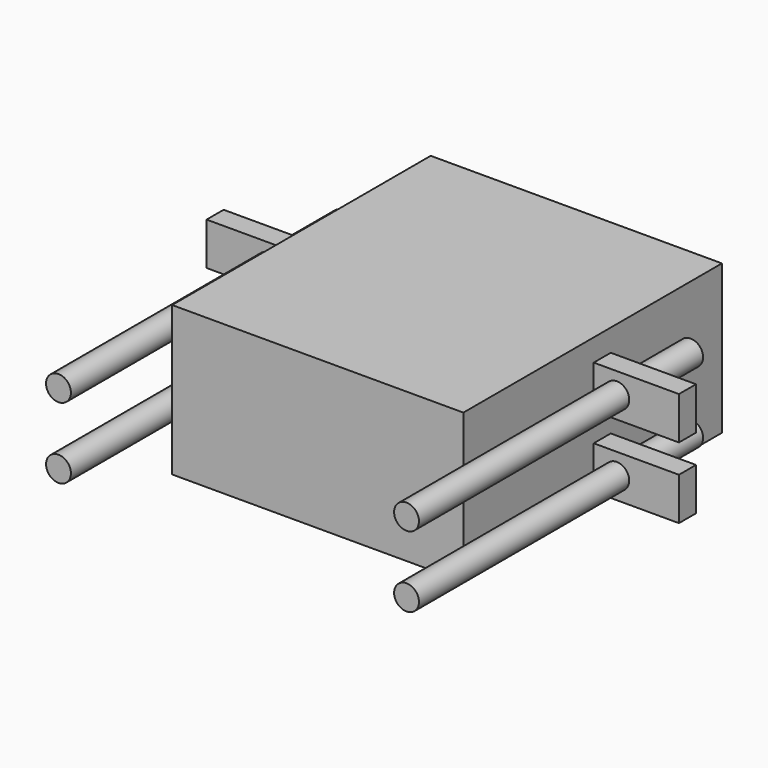
from build123d import *

# Parameters (mm, degrees)
CYLINDER009_R          = 1.75
CYLINDER009_DEPTH      = 50
CYLINDER009_ROLL_ANGLE = 90
CYLINDER007_R          = 1.75
CYLINDER007_DEPTH      = 50
CYLINDER007_ROLL_ANGLE = 90
CYLINDER006_R          = 1.75
CYLINDER006_DEPTH      = 50
CYLINDER006_ROLL_ANGLE = 90
CYLINDER008_R          = 1.75
CYLINDER008_DEPTH      = 50
CYLINDER008_ROLL_ANGLE = 90
BOX012_W               = 3
BOX012_H               = 12
BOX012_DEPTH           = 6
BOX012_PLACEMENT_ANGLE = 90
BOX010_W               = 3
BOX010_H               = 12
BOX010_DEPTH           = 6
BOX010_PLACEMENT_ANGLE = 90
BOX009_W               = 3
BOX009_H               = 12
BOX009_DEPTH           = 6
BOX009_PLACEMENT_ANGLE = 90
BOX011_W               = 3
BOX011_H               = 12
BOX011_DEPTH           = 6
BOX011_PLACEMENT_ANGLE = 90
BOX004_W               = 41
BOX004_H               = 45.5
BOX004_DEPTH           = 21


with BuildPart() as cilindro009:
    # Cylinder009 → Cylinder009 (new body)
    with BuildSketch(Plane.XY):
        Circle(CYLINDER009_R)
    extrude(amount=CYLINDER009_DEPTH)


with BuildPart() as cilindro009_1:
    # Cylinder009 roll: moved
    add(cilindro009.part.rotate(Axis((0, 0, 0), (1, 0, 0)), CYLINDER009_ROLL_ANGLE))


with BuildPart() as cilindro009_2:
    # Cylinder009 placement: moved
    add(cilindro009_1.part.moved(Location((14.25, 0, 17))))


with BuildPart() as cilindro007:
    # Cylinder007 → Cylinder007 (new body)
    with BuildSketch(Plane.XY):
        Circle(CYLINDER007_R)
    extrude(amount=CYLINDER007_DEPTH)


with BuildPart() as cilindro007_1:
    # Cylinder007 roll: moved
    add(cilindro007.part.rotate(Axis((0, 0, 0), (1, 0, 0)), CYLINDER007_ROLL_ANGLE))


with BuildPart() as cilindro007_2:
    # Cylinder007 placement: moved
    add(cilindro007_1.part.moved(Location((14.25, 0, 7))))


with BuildPart() as cilindro006:
    # Cylinder006 → Cylinder006 (new body)
    with BuildSketch(Plane.XY):
        Circle(CYLINDER006_R)
    extrude(amount=CYLINDER006_DEPTH)


with BuildPart() as cilindro006_1:
    # Cylinder006 roll: moved
    add(cilindro006.part.rotate(Axis((0, 0, 0), (1, 0, 0)), CYLINDER006_ROLL_ANGLE))


with BuildPart() as cilindro006_2:
    # Cylinder006 placement: moved
    add(cilindro006_1.part.moved(Location((-34.75, 0, 7))))


with BuildPart() as fusion003:
    # Cylinder008 → Cylinder008 (new body)
    with BuildSketch(Plane.XY):
        Circle(CYLINDER008_R)
    extrude(amount=CYLINDER008_DEPTH)


with BuildPart() as fusion003_1:
    # Cylinder008 roll: moved
    add(fusion003.part.rotate(Axis((0, 0, 0), (1, 0, 0)), CYLINDER008_ROLL_ANGLE))


with BuildPart() as fusion003_2:
    # Cylinder008 placement: moved
    add(fusion003_1.part.moved(Location((-34.75, 0, 17))))

    # Fusion003: union Cilindro009, Cilindro007, Cilindro006
    add(cilindro009_2.part)
    add(cilindro007_2.part)
    add(cilindro006_2.part)


with BuildPart() as fusion003_3:
    # Fusion003 placement: moved
    add(fusion003_2.part.moved(Location((0, -10, -12))))


with BuildPart() as cube010:
    # Box012 → Box012 (new body)
    with BuildSketch(Plane.XY):
        with Locations((1.5, 6)):
            Rectangle(BOX012_W, BOX012_H)
    extrude(amount=BOX012_DEPTH)


with BuildPart() as cube010_1:
    # Box012 placement: moved
    add(cube010.part.moved(Location((-31.5, -20, -8))).rotate(Axis((-31.5, -20, -8), (0, 0, 1)), BOX012_PLACEMENT_ANGLE))


with BuildPart() as cube008:
    # Box010 → Box010 (new body)
    with BuildSketch(Plane.XY):
        with Locations((1.5, 6)):
            Rectangle(BOX010_W, BOX010_H)
    extrude(amount=BOX010_DEPTH)


with BuildPart() as cube008_1:
    # Box010 placement: moved
    add(cube008.part.moved(Location((23, -20, 2))).rotate(Axis((23, -20, 2), (0, 0, 1)), BOX010_PLACEMENT_ANGLE))


with BuildPart() as cube007:
    # Box009 → Box009 (new body)
    with BuildSketch(Plane.XY):
        with Locations((1.5, 6)):
            Rectangle(BOX009_W, BOX009_H)
    extrude(amount=BOX009_DEPTH)


with BuildPart() as cube007_1:
    # Box009 placement: moved
    add(cube007.part.moved(Location((23, -20, -8))).rotate(Axis((23, -20, -8), (0, 0, 1)), BOX009_PLACEMENT_ANGLE))


with BuildPart() as nuts_room:
    # Box011 → Box011 (new body)
    with BuildSketch(Plane.XY):
        with Locations((1.5, 6)):
            Rectangle(BOX011_W, BOX011_H)
    extrude(amount=BOX011_DEPTH)


with BuildPart() as nuts_room_1:
    # Box011 placement: moved
    add(nuts_room.part.moved(Location((-31.5, -20, 2))).rotate(Axis((-31.5, -20, 2), (0, 0, 1)), BOX011_PLACEMENT_ANGLE))

    # Fusion009: union Cube010, Cube008, Cube007
    add(cube010_1.part)
    add(cube008_1.part)
    add(cube007_1.part)


with BuildPart() as nuts_room_2:
    # Fusion009 placement: moved
    add(nuts_room_1.part.moved(Location((0, -3, 0))))


with BuildPart() as fusion010:
    # Box004 → Box004 (new body)
    with BuildSketch(Plane(origin=(-30.75, -45, -10.5), x_dir=(1, 0, 0), z_dir=(0, 0, 1))):
        with Locations((20.5, 22.75)):
            Rectangle(BOX004_W, BOX004_H)
    extrude(amount=BOX004_DEPTH)

    # Fusion010: union Fusion003, nuts_room
    add(fusion003_3.part)
    add(nuts_room_2.part)


solid = fusion010.part
